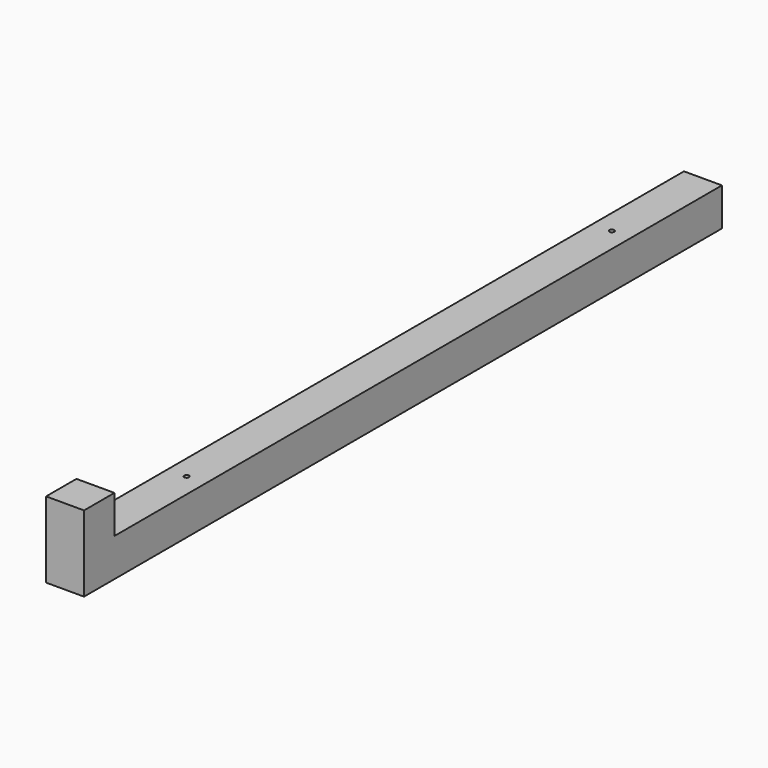
from build123d import *

# Parameters (mm, degrees)
F0_W     = 50.8
F0_H     = 1016
F0_R     = 3.175
F1_DEPTH = 50.8
F2_W     = 50.8
F2_H     = 50.8
F3_DEPTH = 101.6


with BuildPart() as f1:
    # F0 (on Top) → F1 (new body)
    with BuildSketch(Plane.XY):
        with Locations((25.4, 508)):
            Rectangle(F0_W, F0_H)
        with Locations((25.4, 152.4)):
            Circle(F0_R, mode=Mode.SUBTRACT)
        with Locations((25.4, 863.6)):
            Circle(F0_R, mode=Mode.SUBTRACT)
    extrude(amount=F1_DEPTH)

    # F2 (on face) → F3 (join)
    with BuildSketch(Plane(origin=(0, 0, 0), x_dir=(1, 0, 0), z_dir=(0, 0, -1))):
        with Locations((25.4, 25.4)):
            Rectangle(F2_W, F2_H)
    extrude(amount=-F3_DEPTH)


solid = f1.part
